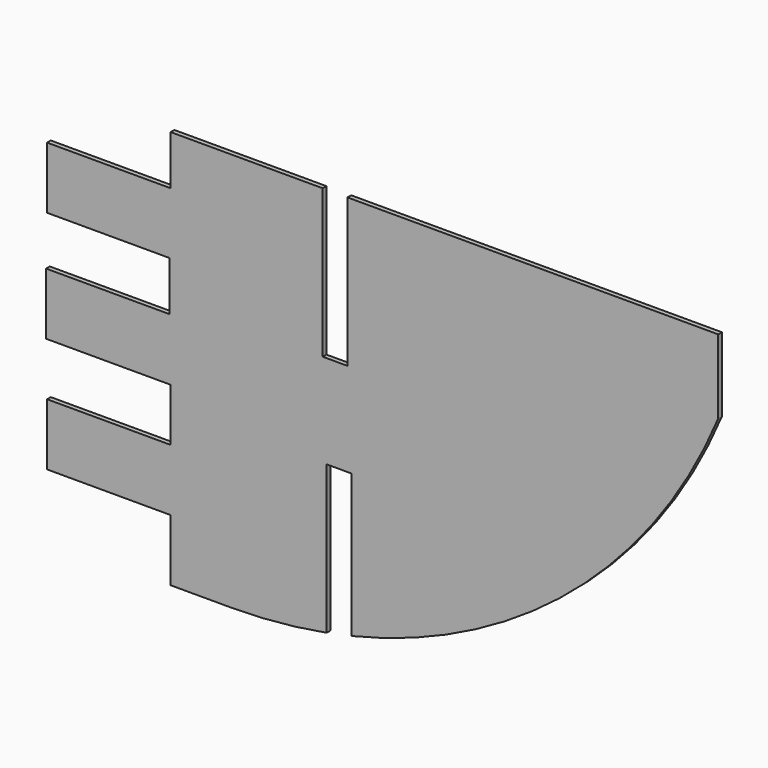
from build123d import *

# Parameters (mm, degrees)
F1_DEPTH = 4.7625


with BuildPart() as f1:
    # F0 (on Front) → F1 (new body)
    with BuildSketch(Plane.XZ):
        with BuildLine():
            Line((0, -346.471005), (0, -409.971005))
            Line((0, -409.971005), (60.96, -409.971005))
            ThreePointArc((60.96, -409.971005), (110.82815, -407.680347), (160.276306, -400.827664))
            Line((160.276306, -400.827664), (160.276306, -248.427664))
            Line((160.276306, -248.427664), (185.676306, -248.427664))
            Line((185.676306, -248.427664), (185.676306, -395.481016))
            ThreePointArc((185.676306, -395.481016), (412.512015, -281.107561), (562.673985, -76.2))
            Line((562.673985, -76.2), (562.673985, 0))
            Line((562.673985, 0), (181.673985, 0))
            Line((181.673985, 0), (181.673985, -152.4))
            Line((181.673985, -152.4), (156.273985, -152.4))
            Line((156.273985, -152.4), (156.273985, 0))
            Line((156.273985, 0), (0, 0))
            Line((0, 0), (0, -50.8))
            Line((0, -50.8), (-127, -50.8))
            Line((-127, -50.8), (-127, -114.3))
            Line((-127, -114.3), (-1.006181, -114.3))
            Line((-1.006181, -114.3), (-1.006181, -165.1))
            Line((-1.006181, -165.1), (-128.006181, -165.1))
            Line((-128.006181, -165.1), (-128.006181, -228.6))
            Line((-128.006181, -228.6), (0, -228.6))
            Line((0, -228.6), (0, -282.971005))
            Line((0, -282.971005), (-127, -282.971005))
            Line((-127, -282.971005), (-127, -346.471005))
            Line((-127, -346.471005), (0, -346.471005))
        make_face()
    extrude(amount=F1_DEPTH)


solid = f1.part
